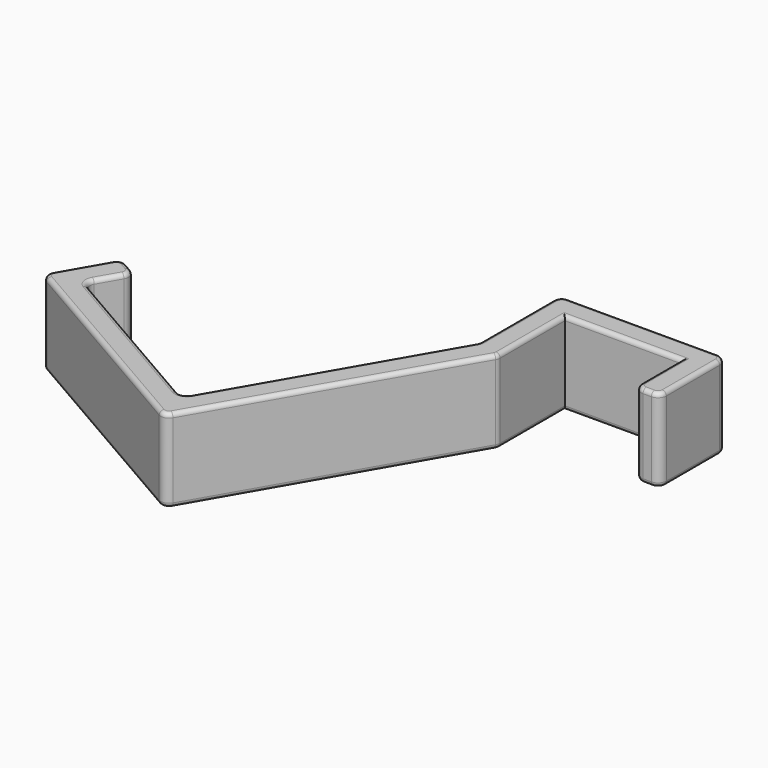
from build123d import *

# Parameters (mm, degrees)
F1_DEPTH = 10
F2_R     = 1
F3_R     = 0.5


with BuildPart() as f1:
    # F0 (on Top) → F1 (new body)
    with BuildSketch(Plane.XY):
        Polygon((0, 7), (0, 0), (3, 0), (3, 10), (-17, 10), (-17, -2.196152), (-32, -28.176915), (-53.650635, -15.676915), (-51.150635, -11.346788), (-53.748711, -9.846788), (-57.748711, -16.774991), (-30.901924, -32.274991), (-14, -3), (-14, 7), align=None)
    extrude(amount=F1_DEPTH)

    # F2
    f2_edges = [f1.edges().sort_by_distance(p)[0] for p in [
        (-17, 10, 5),
        (3, 10, 5),
        (-17, -2.196152, 5),
        (-14, -3, 5),
        (3, 0, 5),
        (0, 0, 5),
        (-30.901924, -32.274991, 5),
        (-32, -28.176915, 5),
        (-53.650635, -15.676915, 5),
        (-51.150635, -11.346788, 5),
        (-53.748711, -9.846788, 5),
        (-57.748711, -16.774991, 5),
    ]]
    fillet(f2_edges, radius=F2_R)

    # F3
    f3_edges = [f1.edges().sort_by_distance(p)[0] for p in [
        (-22.267949, -17.320508, 10),
        (-7, 7, 10),
        (-22.267949, -17.320508, 0),
        (-7, 7, 0),
    ]]
    fillet(f3_edges, radius=F3_R)


solid = f1.part
